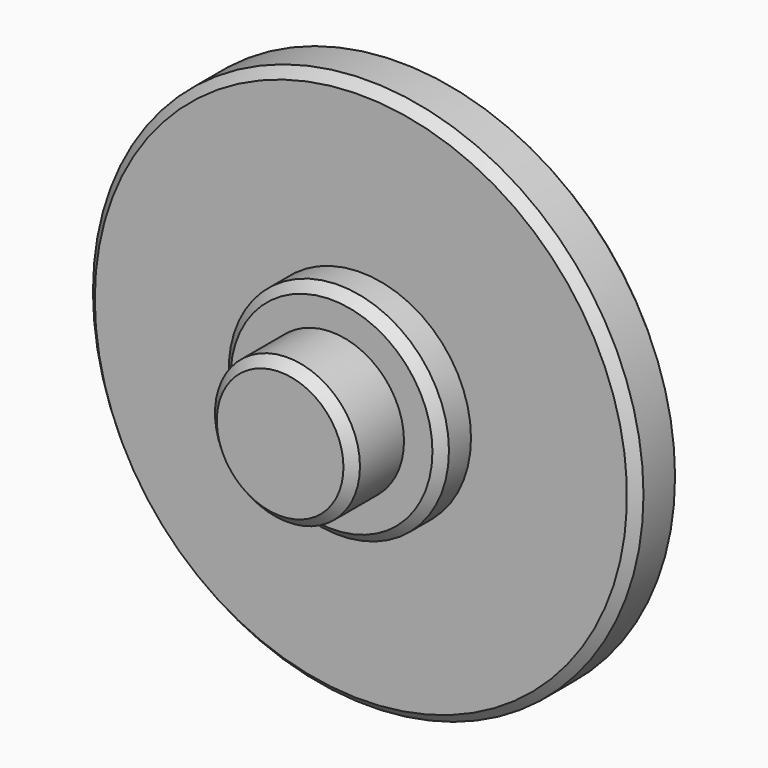
from build123d import *

# Parameters (mm, degrees)
F0_R     = 3.95
F1_DEPTH = 3.5
F2_R     = 6
F3_DEPTH = 2
F4_R     = 15
F5_DEPTH = 3
F6_SIZE  = 0.5
F7_SIZE  = 0.5
F8_SIZE2 = 0.35
F8_SIZE  = 0.35


with BuildPart() as f1:
    # F0 (on Front) → F1 (new body)
    with BuildSketch(Plane.XZ):
        Circle(F0_R)
    extrude(amount=F1_DEPTH)

    # F2 (on Front) → F3 (join)
    with BuildSketch(Plane.XZ):
        Circle(F2_R)
    extrude(amount=-F3_DEPTH)

    # F4 (on face) → F5 (join)
    with BuildSketch(Plane(origin=(0, 2, 0), x_dir=(-1, 0, 0), z_dir=(0, 1, 0))):
        Circle(F4_R)
    extrude(amount=F5_DEPTH)

    # F6
    f6_edges = [f1.edges().sort_by_distance(p)[0] for p in [
        (-3.95, -3.5, 0),
    ]]
    chamfer(f6_edges, length=F6_SIZE)

    # F7
    f7_edges = [f1.edges().sort_by_distance(p)[0] for p in [
        (-6, 0, 0),
        (15, 2, 0),
    ]]
    chamfer(f7_edges, length=F7_SIZE)

    # F8
    f8_edges = [f1.edges().sort_by_distance(p)[0] for p in [
        (15, 5, 0),
    ]]
    chamfer(f8_edges, length=F8_SIZE, length2=F8_SIZE2)


solid = f1.part
